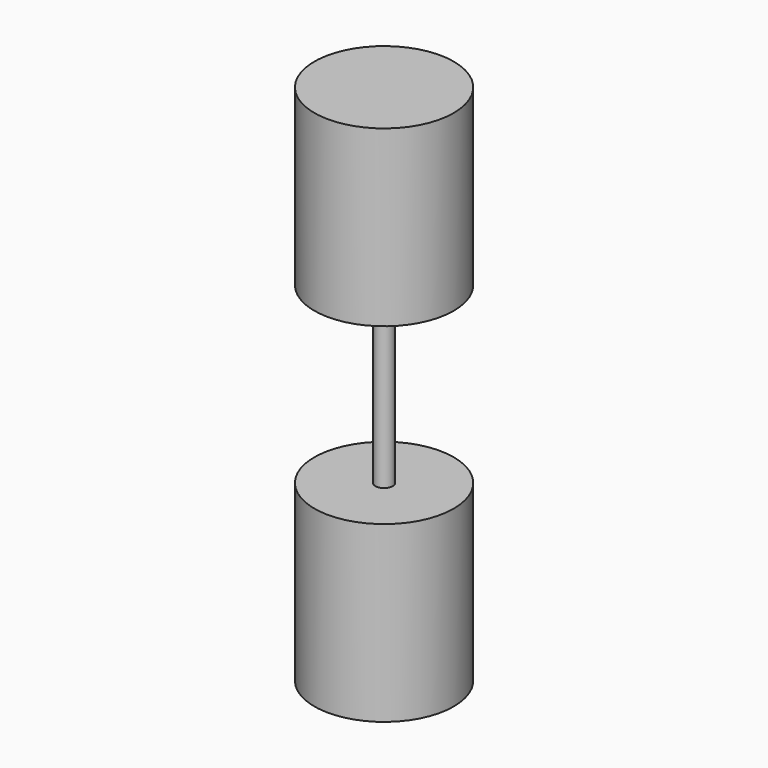
from build123d import *

# Parameters (mm, degrees)
CYLINDER002_R     = 40
CYLINDER002_DEPTH = 100
CYLINDER001_R     = 5
CYLINDER001_DEPTH = 100
CYLINDER_R        = 40
CYLINDER_DEPTH    = 100


with BuildPart() as cylinder002:
    # Cylinder002 → Cylinder002 (new body)
    with BuildSketch(Plane.XY.offset(200)):
        Circle(CYLINDER002_R)
    extrude(amount=CYLINDER002_DEPTH)


with BuildPart() as cylinder001:
    # Cylinder001 → Cylinder001 (new body)
    with BuildSketch(Plane.XY.offset(100)):
        Circle(CYLINDER001_R)
    extrude(amount=CYLINDER001_DEPTH)


with BuildPart() as fusion:
    # Cylinder → Cylinder (new body)
    with BuildSketch(Plane.XY):
        Circle(CYLINDER_R)
    extrude(amount=CYLINDER_DEPTH)

    # Fusion: union Cylinder001
    add(cylinder001.part)


solid = Compound([cylinder002.part, fusion.part])
